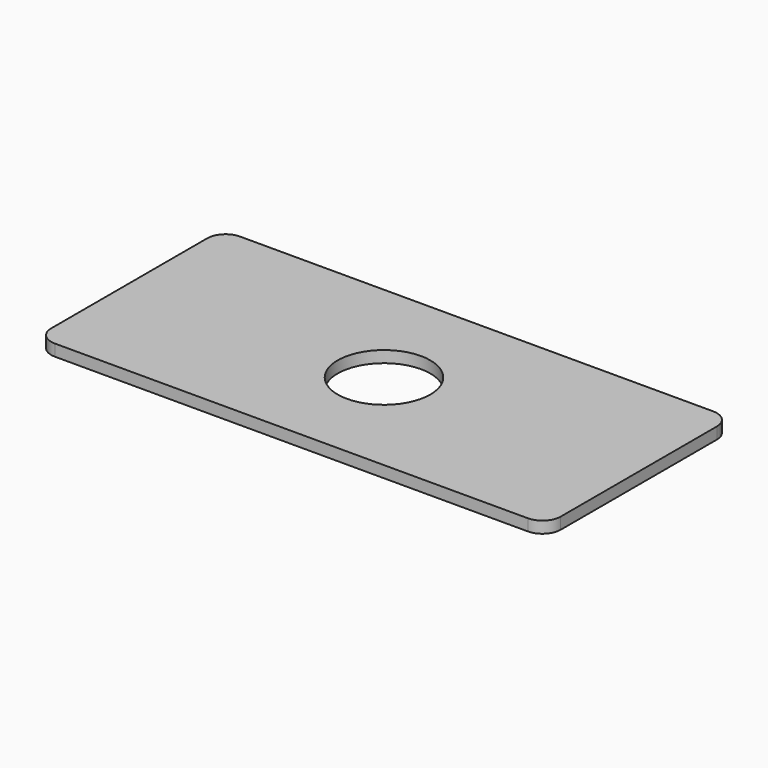
from build123d import *

# Parameters (mm, degrees)
F1_DEPTH = 3.175
F2_R     = 12.7
F3_DEPTH = 3.176


with BuildPart() as f1:
    # F0 (on Top) → F1 (new body)
    with BuildSketch(Plane.XY):
        with BuildLine():
            ThreePointArc((69.85, 26.75), (68.385534, 30.285534), (64.85, 31.75))
            Line((64.85, 31.75), (-64.85, 31.75))
            ThreePointArc((-64.85, 31.75), (-68.385534, 30.285534), (-69.85, 26.75))
            Line((-69.85, 26.75), (-69.85, -26.75))
            ThreePointArc((-69.85, -26.75), (-68.385534, -30.285534), (-64.85, -31.75))
            Line((-64.85, -31.75), (64.85, -31.75))
            ThreePointArc((64.85, -31.75), (68.385534, -30.285534), (69.85, -26.75))
            Line((69.85, -26.75), (69.85, 26.75))
        make_face()
    extrude(amount=F1_DEPTH)

    # F2 (on face) → F3 (cut, through all)
    with BuildSketch(Plane.XY.offset(3.175)):
        Circle(F2_R)
    extrude(amount=-F3_DEPTH, mode=Mode.SUBTRACT)


solid = f1.part
